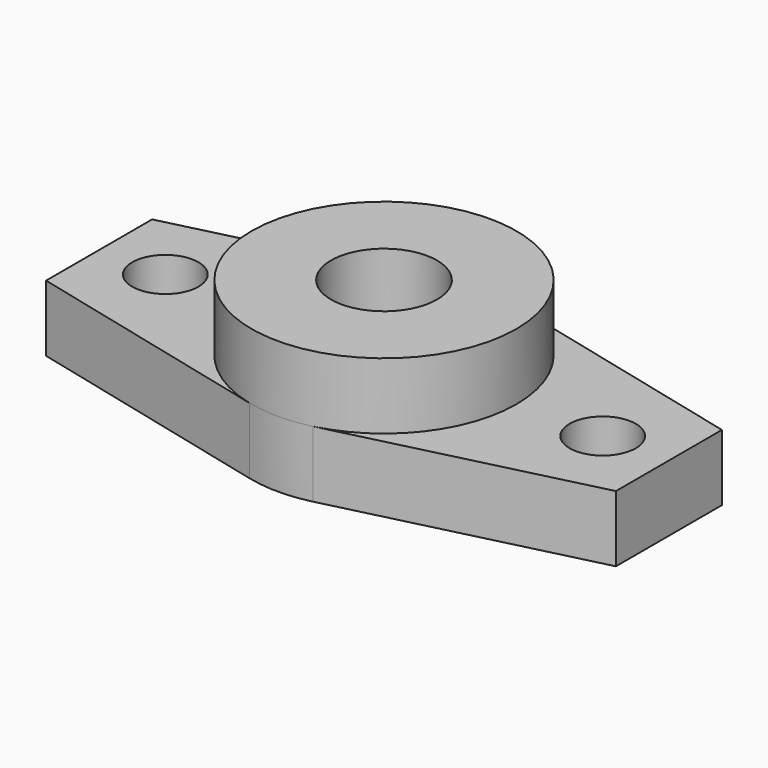
from build123d import *

# Parameters (mm, degrees)
SKETCH_R      = 4
SKETCH_R_2    = 2.5
PAD_DEPTH     = 5
SKETCH001_R   = 10
SKETCH001_R_2 = 4
PAD001_DEPTH  = 5


with BuildPart() as part:
    # Sketch → Pad (new body)
    with BuildSketch(Plane.XY):
        with BuildLine():
            ThreePointArc((-2.3931586809, -9.7094176719), (0, -10), (2.3931586809, -9.7094176719))
            Line((2.3931586809, -9.7094176719), (21.5, -5))
            Line((21.5, -5), (21.5, 5))
            Line((21.5, 5), (2.3931586809, 9.7094176719))
            ThreePointArc((2.3931586809, 9.7094176719), (0, 10), (-2.3931586809, 9.7094176719))
            Line((-21.5, 5), (-2.3931586809, 9.7094176719))
            Line((-21.5, 5), (-21.5, -5))
            Line((-21.5, -5), (-2.3931586809, -9.7094176719))
        make_face()
        Circle(SKETCH_R, mode=Mode.SUBTRACT)
        with Locations((-16.5, 0)):
            Circle(SKETCH_R_2, mode=Mode.SUBTRACT)
        with Locations((16.5, 0)):
            Circle(SKETCH_R_2, mode=Mode.SUBTRACT)
    extrude(amount=PAD_DEPTH)

    # Sketch001 (on Face13 of Pad) → Pad001 (join)
    with BuildSketch(Plane.XY.offset(5)):
        Circle(SKETCH001_R)
        Circle(SKETCH001_R_2, mode=Mode.SUBTRACT)
    extrude(amount=PAD001_DEPTH)


solid = part.part
